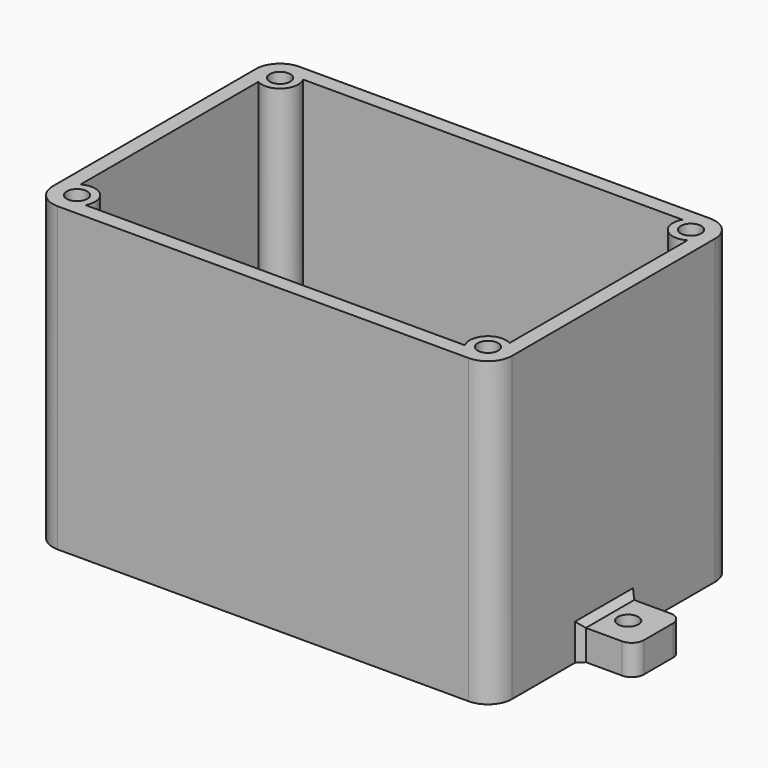
from build123d import *

# Parameters (mm, degrees)
BOX003_W          = 6
BOX003_H          = 6
BOX003_DEPTH      = 21
BOX004_W          = 12
BOX004_H          = 5
BOX004_DEPTH      = 27
CYLINDER003_R     = 1.7
CYLINDER003_DEPTH = 10
CYLINDER005_R     = 1.7
CYLINDER005_DEPTH = 10
CYLINDER007_R     = 1.7
CYLINDER007_DEPTH = 10
CYLINDER001_R     = 1.7
CYLINDER001_DEPTH = 10
BOX001_W          = 71
BOX001_H          = 45
BOX001_DEPTH      = 50
BOX_W             = 76
BOX_H             = 50
BOX_DEPTH         = 50
CYLINDER009_R     = 1.7
CYLINDER009_DEPTH = 10
BOX006_W          = 10
BOX006_H          = 10
BOX006_DEPTH      = 5
CYLINDER008_R     = 1.7
CYLINDER008_DEPTH = 10
BOX005_W          = 10
BOX005_H          = 10
BOX005_DEPTH      = 5
CYLINDER002_R     = 3
CYLINDER002_DEPTH = 50
CYLINDER004_R     = 3
CYLINDER004_DEPTH = 50
CYLINDER006_R     = 3
CYLINDER006_DEPTH = 50
CYLINDER_R        = 3
CYLINDER_DEPTH    = 50
BOX002_W          = 74
BOX002_H          = 2
BOX002_DEPTH      = 27
CHAMFER_SIZE      = 1
CHAMFER002_SIZE   = 1
FILLET_R          = 4
CHAMFER003_SIZE   = 1
FILLET007_1_R     = 2
FILLET007_2_R     = 1


with BuildPart() as obj1:
    # Box003 → Box003 (new body)
    with BuildSketch(Plane(origin=(-3, 34, 2), x_dir=(1, 0, 0), z_dir=(0, 0, 1))):
        with Locations((3, 3)):
            Rectangle(BOX003_W, BOX003_H)
    extrude(amount=BOX003_DEPTH)


with BuildPart() as obj2:
    # Box004 → Box004 (new body)
    with BuildSketch(Plane(origin=(56, 28, 3), x_dir=(1, 0, 0), z_dir=(0, 0, 1))):
        with Locations((6, 2.5)):
            Rectangle(BOX004_W, BOX004_H)
    extrude(amount=BOX004_DEPTH)


with BuildPart() as obj3:
    # Cylinder003 → Cylinder003 (new body)
    with BuildSketch(Plane(origin=(71, 3, 40), x_dir=(1, 0, 0), z_dir=(0, 0, 1))):
        Circle(CYLINDER003_R)
    extrude(amount=CYLINDER003_DEPTH)


with BuildPart() as obj4:
    # Cylinder005 → Cylinder005 (new body)
    with BuildSketch(Plane(origin=(3, 45, 40), x_dir=(1, 0, 0), z_dir=(0, 0, 1))):
        Circle(CYLINDER005_R)
    extrude(amount=CYLINDER005_DEPTH)


with BuildPart() as obj5:
    # Cylinder007 → Cylinder007 (new body)
    with BuildSketch(Plane(origin=(71, 45, 40), x_dir=(1, 0, 0), z_dir=(0, 0, 1))):
        Circle(CYLINDER007_R)
    extrude(amount=CYLINDER007_DEPTH)


with BuildPart() as obj6:
    # Cylinder001 → Cylinder001 (new body)
    with BuildSketch(Plane(origin=(3, 3, 40), x_dir=(1, 0, 0), z_dir=(0, 0, 1))):
        Circle(CYLINDER001_R)
    extrude(amount=CYLINDER001_DEPTH)

    # Fusion003: union obj3, obj4, obj5
    add(obj3.part)
    add(obj4.part)
    add(obj5.part)


with BuildPart() as vaciado_interior:
    # Box001 → Box001 (new body)
    with BuildSketch(Plane(origin=(1.5, 1.5, 1.5), x_dir=(1, 0, 0), z_dir=(0, 0, 1))):
        with Locations((35.5, 22.5)):
            Rectangle(BOX001_W, BOX001_H)
    extrude(amount=BOX001_DEPTH)


with BuildPart() as parte_inferior:
    # Box → Box (new body)
    with BuildSketch(Plane(origin=(-1, -1, 0), x_dir=(1, 0, 0), z_dir=(0, 0, 1))):
        with Locations((38, 25)):
            Rectangle(BOX_W, BOX_H)
    extrude(amount=BOX_DEPTH)

    # Cut: cut vaciado interior
    add(vaciado_interior.part, mode=Mode.SUBTRACT)


with BuildPart() as obj7:
    # Cylinder009 → Cylinder009 (new body)
    with BuildSketch(Plane(origin=(-5, 22, -1), x_dir=(1, 0, 0), z_dir=(0, 0, 1))):
        Circle(CYLINDER009_R)
    extrude(amount=CYLINDER009_DEPTH)


with BuildPart() as cut002:
    # Box006 → Box006 (new body)
    with BuildSketch(Plane(origin=(-10, 17, 0), x_dir=(1, 0, 0), z_dir=(0, 0, 1))):
        with Locations((5, 5)):
            Rectangle(BOX006_W, BOX006_H)
    extrude(amount=BOX006_DEPTH)

    # Cut002: cut obj7
    add(obj7.part, mode=Mode.SUBTRACT)


with BuildPart() as cut002_1:
    # Cut002 placement: moved
    add(cut002.part.moved(Location((84, 0, 0))))


with BuildPart() as obj8:
    # Cylinder008 → Cylinder008 (new body)
    with BuildSketch(Plane(origin=(-5, 22, -1), x_dir=(1, 0, 0), z_dir=(0, 0, 1))):
        Circle(CYLINDER008_R)
    extrude(amount=CYLINDER008_DEPTH)


with BuildPart() as obj9:
    # Box005 → Box005 (new body)
    with BuildSketch(Plane(origin=(-10, 17, 0), x_dir=(1, 0, 0), z_dir=(0, 0, 1))):
        with Locations((5, 5)):
            Rectangle(BOX005_W, BOX005_H)
    extrude(amount=BOX005_DEPTH)

    # Cut001: cut obj8
    add(obj8.part, mode=Mode.SUBTRACT)

    # Fusion: union Cut002
    add(cut002_1.part)


with BuildPart() as soporte_tornillo001:
    # Cylinder002 → Cylinder002 (new body)
    with BuildSketch(Plane(origin=(71, 3, 0), x_dir=(1, 0, 0), z_dir=(0, 0, 1))):
        Circle(CYLINDER002_R)
    extrude(amount=CYLINDER002_DEPTH)


with BuildPart() as soporte_tornillo002:
    # Cylinder004 → Cylinder004 (new body)
    with BuildSketch(Plane(origin=(3, 45, 0), x_dir=(1, 0, 0), z_dir=(0, 0, 1))):
        Circle(CYLINDER004_R)
    extrude(amount=CYLINDER004_DEPTH)


with BuildPart() as soporte_tornillo003:
    # Cylinder006 → Cylinder006 (new body)
    with BuildSketch(Plane(origin=(71, 45, 0), x_dir=(1, 0, 0), z_dir=(0, 0, 1))):
        Circle(CYLINDER006_R)
    extrude(amount=CYLINDER006_DEPTH)


with BuildPart() as obj10:
    # Cylinder → Cylinder (new body)
    with BuildSketch(Plane(origin=(3, 3, 0), x_dir=(1, 0, 0), z_dir=(0, 0, 1))):
        Circle(CYLINDER_R)
    extrude(amount=CYLINDER_DEPTH)

    # Fusion001: union soporte tornillo001, soporte tornillo002, soporte tornillo003
    add(soporte_tornillo001.part)
    add(soporte_tornillo002.part)
    add(soporte_tornillo003.part)


with BuildPart() as parte_inferior001:
    # Box002 → Box002 (new body)
    with BuildSketch(Plane(origin=(0, 30, 0), x_dir=(1, 0, 0), z_dir=(0, 0, 1))):
        with Locations((37, 1)):
            Rectangle(BOX002_W, BOX002_H)
    extrude(amount=BOX002_DEPTH)

    # Fusion002: union parte inferior, obj9, obj10
    add(parte_inferior.part)
    add(obj9.part)
    add(obj10.part)

    # Cut003: cut obj6
    add(obj6.part, mode=Mode.SUBTRACT)

    # Cut004: cut obj2
    add(obj2.part, mode=Mode.SUBTRACT)

    # Cut005: cut obj1
    add(obj1.part, mode=Mode.SUBTRACT)

    # Chamfer
    chamfer_edges = [parte_inferior001.edges().sort_by_distance(p)[0] for p in [
        (72.5, 17.799038, 1.5),
    ]]
    chamfer(chamfer_edges, length=CHAMFER_SIZE)

    # Chamfer002
    chamfer002_edges = [parte_inferior001.edges().sort_by_distance(p)[0] for p in [
        (-1, 27, 2.5),
    ]]
    chamfer(chamfer002_edges, length=CHAMFER002_SIZE)

    # Fillet
    fillet_edges = [parte_inferior001.edges().sort_by_distance(p)[0] for p in [
        (-1, 49, 25),
        (-1, -1, 25),
        (75, 49, 25),
        (75, -1, 25),
    ]]
    fillet(fillet_edges, radius=FILLET_R)

    # Chamfer003
    chamfer003_edges = [parte_inferior001.edges().sort_by_distance(p)[0] for p in [
        (-1, 22, 5),
        (-1, 17, 2.5),
        (75, 17, 2.5),
        (75, 27, 2.5),
        (75, 22, 5),
        (72.5, 30, 14.75),
        (72.5, 31, 27),
        (72.5, 32, 14.25),
        (1.5, 30, 14.25),
        (1.5, 31, 27),
        (1.5, 32, 14.25),
    ]]
    chamfer(chamfer003_edges, length=CHAMFER003_SIZE)

    # Fillet007 1
    fillet007_1_edges = [parte_inferior001.edges().sort_by_distance(p)[0] for p in [
        (0.25, 40, 23),
        (0.25, 34, 23),
        (84, 27, 2.5),
        (84, 17, 2.5),
        (-10, 27, 2.5),
        (-10, 17, 2.5),
    ]]
    fillet(fillet007_1_edges, radius=FILLET007_1_R)

    # Fillet007 2
    fillet007_2_edges = [parte_inferior001.edges().sort_by_distance(p)[0] for p in [
        (68, 31, 27),
        (56, 31, 27),
    ]]
    fillet(fillet007_2_edges, radius=FILLET007_2_R)


solid = parte_inferior001.part
